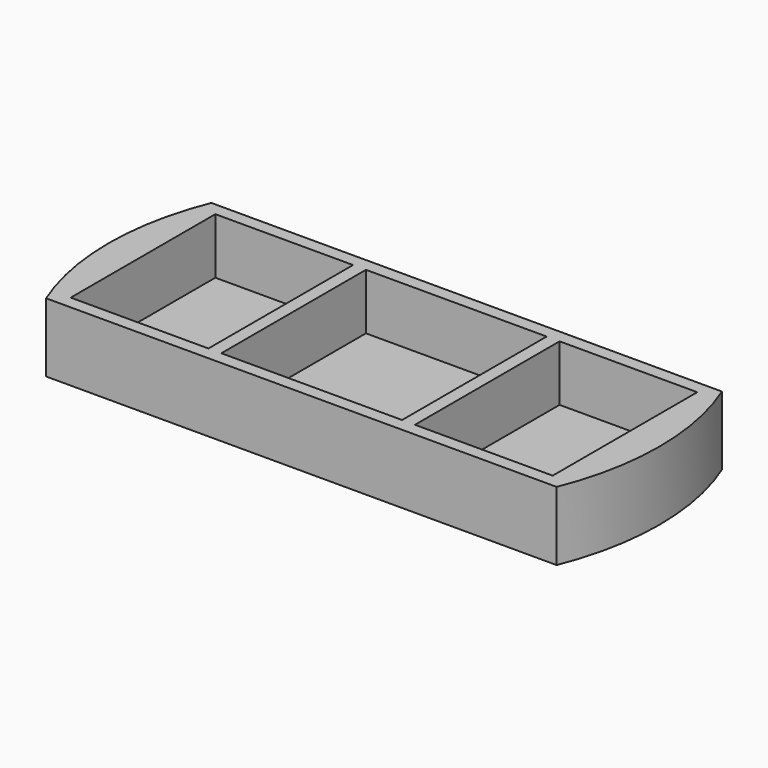
from build123d import *

# Parameters (mm, degrees)
F1_DEPTH = 25.4
F2_W     = 47.625
F2_H     = 66.675
F2_W_2   = 66.675
F2_W_3   = 3.175
F3_DEPTH = 20.6375


with BuildPart() as f1:
    # F0 (on Top) → F1 (new body)
    with BuildSketch(Plane.XY):
        with BuildLine():
            Line((195.7857207861, 0), (7.4142792139, 0))
            ThreePointArc((7.4142792139, 0), (1.8707935661, -18.6926461344), (0, -38.1))
            ThreePointArc((0, -38.1), (1.8707935661, -57.5073538656), (7.4142792139, -76.2))
            Line((7.4142792139, -76.2), (195.7857207861, -76.2))
            ThreePointArc((195.7857207861, -76.2), (201.3292064339, -57.5073538656), (203.2, -38.1))
            ThreePointArc((203.2, -38.1), (201.3292064339, -18.6926461344), (195.7857207861, 0))
        make_face()
    extrude(amount=F1_DEPTH)

    # F2 (on face) → F3 (cut)
    with BuildSketch(Plane.XY.offset(25.4)):
        with Locations((39.6875, -38.1)):
            Rectangle(F2_W, F2_H)
        with Locations((101.6, -38.1)):
            Rectangle(F2_W_2, F2_H)
        with Locations((163.5125, -38.1)):
            Rectangle(F2_W, F2_H)
        with Locations((14.2875, -38.1)):
            Rectangle(F2_W_3, F2_H)
        with Locations((188.9125, -38.1)):
            Rectangle(F2_W_3, F2_H)
    extrude(amount=-F3_DEPTH, mode=Mode.SUBTRACT)


solid = f1.part
